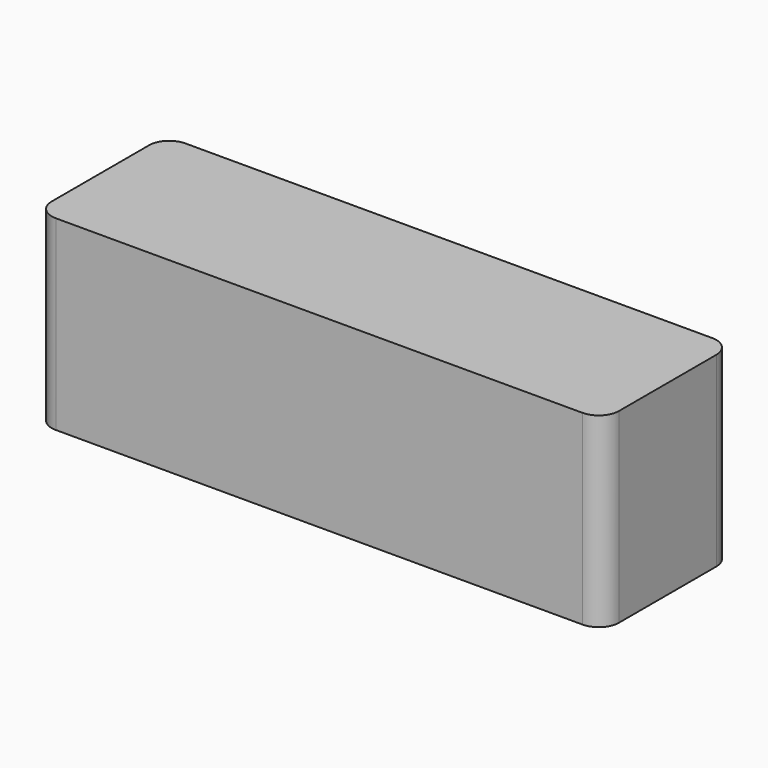
from build123d import *

# Parameters (mm, degrees)
F0_W     = 177.8
F0_H     = 50.8
F1_DEPTH = 58.42
F2_R     = 6.35
F3_R     = 6.35
F4_DEPTH = 3.175


with BuildPart() as f1:
    # F0 (on Top) → F1 (new body)
    with BuildSketch(Plane.XY):
        Rectangle(F0_W, F0_H)
    extrude(amount=F1_DEPTH)

    # F2
    f2_edges = [f1.edges().sort_by_distance(p)[0] for p in [
        (-88.9, 25.4, 29.21),
        (88.9, 25.4, 29.21),
        (88.9, -25.4, 29.21),
        (-88.9, -25.4, 29.21),
    ]]
    fillet(f2_edges, radius=F2_R)

    # F3 (on face) → F4 (cut)
    with BuildSketch(Plane(origin=(0, 0, 0), x_dir=(1, 0, 0), z_dir=(0, 0, -1))):
        with Locations((79.375, 16.764)):
            Circle(F3_R)
        with Locations((79.375, -16.764)):
            Circle(F3_R)
        with Locations((-79.375, 16.764)):
            Circle(F3_R)
        with Locations((-79.375, -16.764)):
            Circle(F3_R)
    extrude(amount=-F4_DEPTH, mode=Mode.SUBTRACT)


solid = f1.part
